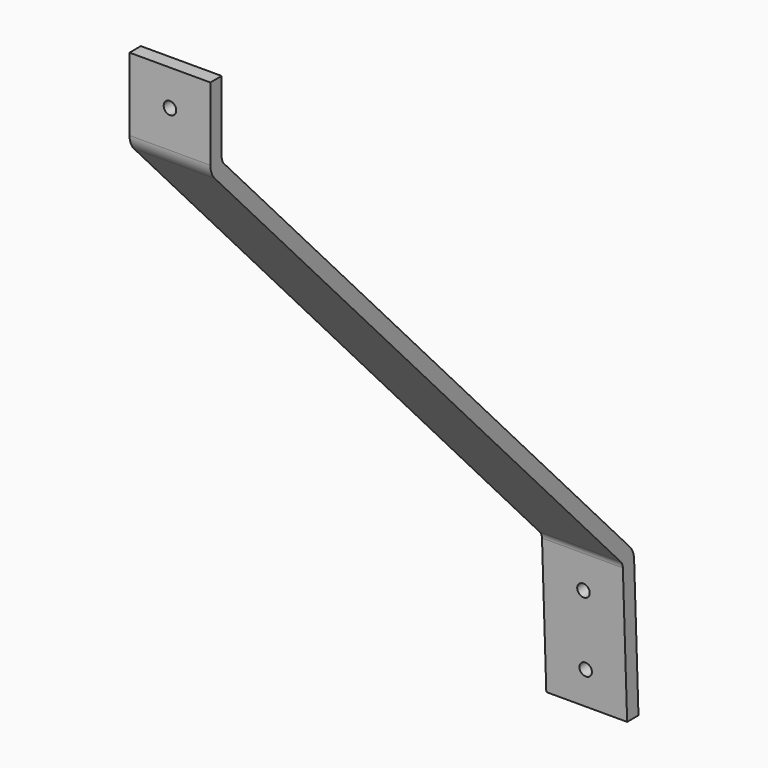
from build123d import *

# Parameters (mm, degrees)
F1_DEPTH = 25.4
F3_D     = 7.874
F5_D     = 7.874


with BuildPart() as f1:
    # F0 (on Right) → F1 (new body, symmetric)
    with BuildSketch(Plane.YZ):
        with BuildLine():
            ThreePointArc((0, 160.2718698293), (0.8845331432, 155.615181848), (3.4149201504, 151.6071544741))
            Line((3.4149201504, 151.6071544741), (322.2393654787, -190.0440494609))
            ThreePointArc((322.2393654787, -190.0440494609), (323.4580585518, -191.9333664625), (323.9420015649, -194.1289371625))
            Line((323.9420015649, -194.1289371625), (327.3172136475, -280.67))
            Line((327.3172136475, -280.67), (336.2139723666, -280.67))
            Line((336.2139723666, -280.67), (332.7884473544, -192.8389043312))
            ThreePointArc((332.7884473544, -192.8389043312), (331.8205613281, -188.4477629311), (329.3831751819, -184.6691289279))
            Line((329.3831751819, -184.6691289279), (10.5974600752, 156.9405718319))
            ThreePointArc((10.5974600752, 156.9405718319), (9.3322665716, 158.9445855188), (8.89, 161.2729295095))
            Line((8.89, 161.2729295095), (8.89, 206.0665714286))
            Line((8.89, 206.0665714286), (0, 206.0665714286))
            Line((0, 206.0665714286), (0, 160.2718698293))
        make_face()
    extrude(amount=F1_DEPTH, both=True)

    # F3 (through all)
    with Locations(Plane(origin=(0, 8.89, 0), x_dir=(-1, 0, 0), z_dir=(0, 1, 0))):
        with Locations((0, 183.669750469)):
            Hole(F3_D / 2)

    # F5 (through all)
    with Locations(Plane(origin=(0, 315.8902243159, 12.3201225744), x_dir=(1, 0, 0), z_dir=(0, -0.9992403167, -0.0389716498))):
        with Locations((0, -227.6844431866), (0, -272.1344431866)):
            Hole(F5_D / 2)


solid = f1.part
